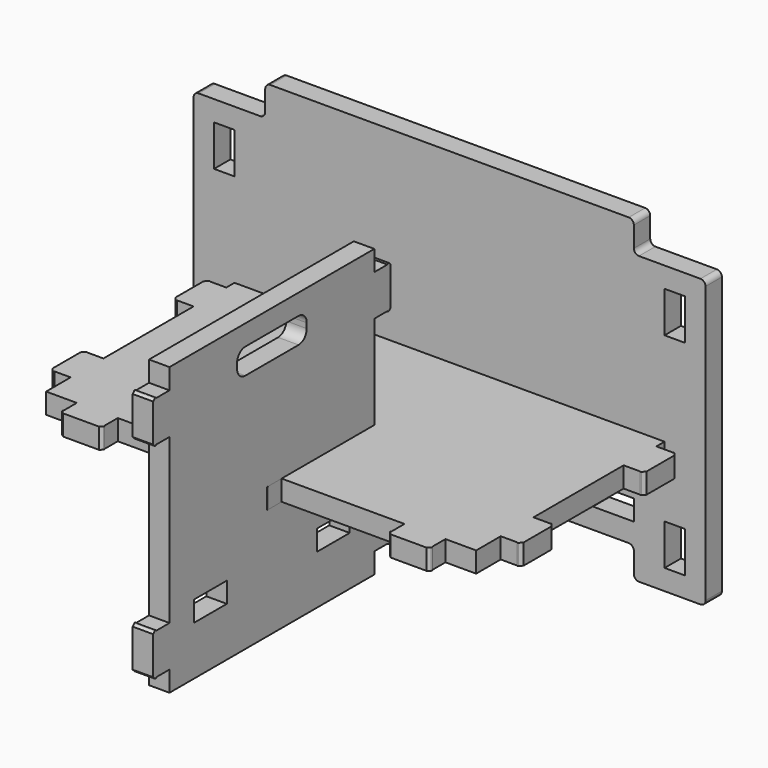
from build123d import *

# Parameters (mm, degrees)
F0_W     = 40
F0_H     = 20
F0_W_2   = 20
F0_H_2   = 40
F3_DEPTH = 20
F1_W     = 40
F1_H     = 20
F4_DEPTH = 20
F2_W     = 16
F2_H     = 40
F5_DEPTH = 20


with BuildPart() as f3:
    # F0 (on Front) → F3 (new body)
    with BuildSketch(Plane.XZ):
        with BuildLine():
            ThreePointArc((-180, -83.550865), (-178.535534, -80.015331), (-175, -78.550865))
            Line((-175, -78.550865), (175, -78.550865))
            ThreePointArc((175, -78.550865), (178.535534, -80.015331), (180, -83.550865))
            Line((180, -83.550865), (180, -103.550865))
            ThreePointArc((180, -103.550865), (181.464466, -107.086399), (185, -108.550865))
            Line((185, -108.550865), (245, -108.550865))
            ThreePointArc((245, -108.550865), (248.535534, -107.086399), (250, -103.550865))
            Line((250, -103.550865), (250, -80.550865))
            Line((250, -80.550865), (250, -78.550865))
            Line((250, -78.550865), (250, 166.449135))
            ThreePointArc((250, 166.449135), (248.535534, 169.984669), (245, 171.449135))
            Line((245, 171.449135), (185, 171.449135))
            ThreePointArc((185, 171.449135), (181.464466, 172.913601), (180, 176.449135))
            Line((180, 176.449135), (180, 196.449135))
            ThreePointArc((180, 196.449135), (178.535534, 199.984669), (175, 201.449135))
            Line((175, 201.449135), (-175, 201.449135))
            ThreePointArc((-175, 201.449135), (-178.535534, 199.984669), (-180, 196.449135))
            Line((-180, 196.449135), (-180, 176.449135))
            ThreePointArc((-180, 176.449135), (-181.464466, 172.913601), (-185, 171.449135))
            Line((-185, 171.449135), (-245, 171.449135))
            ThreePointArc((-245, 171.449135), (-248.535534, 169.984669), (-250, 166.449135))
            Line((-250, 166.449135), (-250, -78.550865))
            Line((-250, -78.550865), (-250, -80.550865))
            Line((-250, -80.550865), (-250, -103.550865))
            ThreePointArc((-250, -103.550865), (-248.535534, -107.086399), (-245, -108.550865))
            Line((-245, -108.550865), (-185, -108.550865))
            ThreePointArc((-185, -108.550865), (-181.464466, -107.086399), (-180, -103.550865))
            Line((-180, -103.550865), (-180, -83.550865))
        make_face()
        Polygon((-230, -88.550865), (-230, -78.550865), (-230, -48.550865), (-210, -48.550865), (-210, -78.550865), (-210, -88.550865), align=None, mode=Mode.SUBTRACT)
        with Locations((-160, -48.550865)):
            Rectangle(F0_W, F0_H, mode=Mode.SUBTRACT)
        with Locations((0, -48.550865)):
            Rectangle(F0_W, F0_H, mode=Mode.SUBTRACT)
        with Locations((160, -48.550865)):
            Rectangle(F0_W, F0_H, mode=Mode.SUBTRACT)
        Polygon((230, -48.550865), (230, -78.550865), (230, -88.550865), (210, -88.550865), (210, -78.550865), (210, -48.550865), align=None, mode=Mode.SUBTRACT)
        with Locations((-220, 131.449135)):
            Rectangle(F0_W_2, F0_H_2, mode=Mode.SUBTRACT)
        with Locations((220, 131.449135)):
            Rectangle(F0_W_2, F0_H_2, mode=Mode.SUBTRACT)
    extrude(amount=F3_DEPTH)


with BuildPart() as f4:
    # F1 (on Right) → F4 (new body)
    with BuildSketch(Plane.YZ):
        Polygon((-386.832327, -108.550865), (-136.832327, -108.550865), (-136.832327, -88.550865), (-136.832327, -48.550865), (-136.832327, 111.449135), (-136.832327, 151.449135), (-136.832327, 171.449135), (-386.832327, 171.449135), (-386.832327, 151.449135), (-386.832327, 111.449135), (-386.832327, -48.550865), (-386.832327, -88.550865), align=None)
        with Locations((-336.832327, -50.550865)):
            Rectangle(F1_W, F1_H, mode=Mode.SUBTRACT)
        with Locations((-186.832327, -50.550865)):
            Rectangle(F1_W, F1_H, mode=Mode.SUBTRACT)
        with BuildLine():
            Line((-294.332327, 151.449135), (-229.332327, 151.449135))
            ThreePointArc((-229.332327, 151.449135), (-222.261259, 148.520203), (-219.332327, 141.449135))
            Line((-219.332327, 141.449135), (-219.332327, 136.449135))
            ThreePointArc((-219.332327, 136.449135), (-222.261259, 129.378067), (-229.332327, 126.449135))
            Line((-229.332327, 126.449135), (-294.332327, 126.449135))
            ThreePointArc((-294.332327, 126.449135), (-301.403394, 129.378067), (-304.332327, 136.449135))
            Line((-304.332327, 136.449135), (-304.332327, 141.449135))
            ThreePointArc((-304.332327, 141.449135), (-301.403394, 148.520203), (-294.332327, 151.449135))
        make_face(mode=Mode.SUBTRACT)
        Polygon((-136.832327, -48.550865), (-136.832327, -88.550865), (-120.832327, -88.550865), (-120.832327, -68.550865), (-120.832327, -48.550865), align=None)
        Polygon((-402.832327, -88.550865), (-386.832327, -88.550865), (-386.832327, -48.550865), (-402.832327, -48.550865), (-402.832327, -68.550865), align=None)
        with BuildLine():
            Line((-120.832327, -68.550865), (-120.832327, -88.550865))
            Line((-120.832327, -88.550865), (-120.26851, -89.107587))
            ThreePointArc((-120.26851, -89.107587), (-119.559563, -89.395997), (-118.854325, -89.098632))
            Line((-118.854325, -89.098632), (-116.832327, -87.050865))
            Line((-116.832327, -87.050865), (-116.832327, -68.550865))
            Line((-116.832327, -68.550865), (-116.832327, -50.050865))
            Line((-116.832327, -50.050865), (-118.854325, -48.003098))
            ThreePointArc((-118.854325, -48.003098), (-119.559563, -47.705733), (-120.26851, -47.994143))
            Line((-120.26851, -47.994143), (-120.832327, -48.550865))
            Line((-120.832327, -48.550865), (-120.832327, -68.550865))
        make_face()
        with BuildLine():
            Line((-403.396143, -89.107587), (-402.832327, -88.550865))
            Line((-402.832327, -88.550865), (-402.832327, -68.550865))
            Line((-402.832327, -68.550865), (-402.832327, -48.550865))
            Line((-402.832327, -48.550865), (-403.396143, -47.994143))
            ThreePointArc((-403.396143, -47.994143), (-404.105091, -47.705733), (-404.810329, -48.003098))
            Line((-404.810329, -48.003098), (-406.832327, -50.050865))
            Line((-406.832327, -50.050865), (-406.832327, -68.550865))
            Line((-406.832327, -68.550865), (-406.832327, -87.050865))
            Line((-406.832327, -87.050865), (-404.810329, -89.098632))
            ThreePointArc((-404.810329, -89.098632), (-404.105091, -89.395997), (-403.396143, -89.107587))
        make_face()
        Polygon((-136.832327, 151.449135), (-136.832327, 111.449135), (-120.832327, 111.449135), (-120.832327, 131.449135), (-120.832327, 151.449135), align=None)
        Polygon((-402.832327, 111.449135), (-386.832327, 111.449135), (-386.832327, 151.449135), (-402.832327, 151.449135), (-402.832327, 131.449135), align=None)
        with BuildLine():
            Line((-120.832327, 131.449135), (-120.832327, 111.449135))
            Line((-120.832327, 111.449135), (-120.26851, 110.892413))
            ThreePointArc((-120.26851, 110.892413), (-119.559563, 110.604003), (-118.854325, 110.901368))
            Line((-118.854325, 110.901368), (-116.832327, 112.949135))
            Line((-116.832327, 112.949135), (-116.832327, 131.449135))
            Line((-116.832327, 131.449135), (-116.832327, 149.949135))
            Line((-116.832327, 149.949135), (-118.854325, 151.996902))
            ThreePointArc((-118.854325, 151.996902), (-119.559563, 152.294267), (-120.26851, 152.005857))
            Line((-120.26851, 152.005857), (-120.832327, 151.449135))
            Line((-120.832327, 151.449135), (-120.832327, 131.449135))
        make_face()
        with BuildLine():
            Line((-403.396143, 110.892413), (-402.832327, 111.449135))
            Line((-402.832327, 111.449135), (-402.832327, 131.449135))
            Line((-402.832327, 131.449135), (-402.832327, 151.449135))
            Line((-402.832327, 151.449135), (-403.396143, 152.005857))
            ThreePointArc((-403.396143, 152.005857), (-404.105091, 152.294267), (-404.810329, 151.996902))
            Line((-404.810329, 151.996902), (-406.832327, 149.949135))
            Line((-406.832327, 149.949135), (-406.832327, 131.449135))
            Line((-406.832327, 131.449135), (-406.832327, 112.949135))
            Line((-406.832327, 112.949135), (-404.810329, 110.901368))
            ThreePointArc((-404.810329, 110.901368), (-404.105091, 110.604003), (-403.396143, 110.892413))
        make_face()
    extrude(amount=F4_DEPTH)


with BuildPart() as f5:
    # F2 (on Top) → F5 (new body)
    with BuildSketch(Plane.XY):
        Polygon((-180, 0), (-210, 0), (-210, -30), (-210, -70), (-210, -180), (-210, -220), (-210, -250), (-180, -250), (-140, -250), (-20, -250), (20, -250), (140, -250), (180, -250), (210, -250), (210, -220), (210, -180), (210, -70), (210, -30), (210, 0), (180, 0), (140, 0), (20, 0), (-20, 0), (-140, 0), align=None)
        Polygon((-180, 16), (-180, 0), (-140, 0), (-140, 16), (-160, 16), align=None)
        with Locations((-218, -50)):
            Rectangle(F2_W, F2_H)
        with BuildLine():
            Line((-180.256755, 16.297232), (-180, 16))
            Line((-180, 16), (-160, 16))
            Line((-160, 16), (-140, 16))
            Line((-140, 16), (-139.743245, 16.297232))
            ThreePointArc((-139.743245, 16.297232), (-139.502659, 17.023803), (-139.846301, 17.707686))
            Line((-139.846301, 17.707686), (-142.5, 20))
            Line((-142.5, 20), (-160, 20))
            Line((-160, 20), (-177.5, 20))
            Line((-177.5, 20), (-180.153699, 17.707686))
            ThreePointArc((-180.153699, 17.707686), (-180.497341, 17.023803), (-180.256755, 16.297232))
        make_face()
        with BuildLine():
            Line((-226, -70), (-226, -30))
            Line((-226, -30), (-226.230299, -29.807743))
            ThreePointArc((-226.230299, -29.807743), (-226.947322, -29.634489), (-227.588058, -30))
            Line((-227.588058, -30), (-230, -33))
            Line((-230, -33), (-230, -50))
            Line((-230, -50), (-230, -67))
            Line((-230, -67), (-227.588058, -70))
            ThreePointArc((-227.588058, -70), (-226.947322, -70.365511), (-226.230299, -70.192257))
            Line((-226.230299, -70.192257), (-226, -70))
        make_face()
        Polygon((-20, 16), (-20, 0), (20, 0), (20, 16), (0, 16), align=None)
        with Locations((-218, -200)):
            Rectangle(F2_W, F2_H)
        with BuildLine():
            Line((-20.256755, 16.297232), (-20, 16))
            Line((-20, 16), (0, 16))
            Line((0, 16), (20, 16))
            Line((20, 16), (20.256755, 16.297232))
            ThreePointArc((20.256755, 16.297232), (20.497341, 17.023803), (20.153699, 17.707686))
            Line((20.153699, 17.707686), (17.5, 20))
            Line((17.5, 20), (0, 20))
            Line((0, 20), (-17.5, 20))
            Line((-17.5, 20), (-20.153699, 17.707686))
            ThreePointArc((-20.153699, 17.707686), (-20.497341, 17.023803), (-20.256755, 16.297232))
        make_face()
        with BuildLine():
            Line((-226, -220), (-226, -180))
            Line((-226, -180), (-226.230299, -179.807743))
            ThreePointArc((-226.230299, -179.807743), (-226.947322, -179.634489), (-227.588058, -180))
            Line((-227.588058, -180), (-230, -183))
            Line((-230, -183), (-230, -200))
            Line((-230, -200), (-230, -217))
            Line((-230, -217), (-227.588058, -220))
            ThreePointArc((-227.588058, -220), (-226.947322, -220.365511), (-226.230299, -220.192257))
            Line((-226.230299, -220.192257), (-226, -220))
        make_face()
        Polygon((140, 16), (140, 0), (180, 0), (180, 16), (160, 16), align=None)
        with BuildLine():
            Line((139.743245, 16.297232), (140, 16))
            Line((140, 16), (160, 16))
            Line((160, 16), (180, 16))
            Line((180, 16), (180.256755, 16.297232))
            ThreePointArc((180.256755, 16.297232), (180.497341, 17.023803), (180.153699, 17.707686))
            Line((180.153699, 17.707686), (177.5, 20))
            Line((177.5, 20), (160, 20))
            Line((160, 20), (142.5, 20))
            Line((142.5, 20), (139.846301, 17.707686))
            ThreePointArc((139.846301, 17.707686), (139.502659, 17.023803), (139.743245, 16.297232))
        make_face()
        Polygon((-140, -250), (-180, -250), (-180, -266), (-160, -266), (-140, -266), align=None)
        with BuildLine():
            Line((-160, -266), (-180, -266))
            Line((-180, -266), (-180.256755, -266.297232))
            ThreePointArc((-180.256755, -266.297232), (-180.497341, -267.023803), (-180.153699, -267.707686))
            Line((-180.153699, -267.707686), (-177.5, -270))
            Line((-177.5, -270), (-160, -270))
            Line((-160, -270), (-142.5, -270))
            Line((-142.5, -270), (-139.846301, -267.707686))
            ThreePointArc((-139.846301, -267.707686), (-139.502659, -267.023803), (-139.743245, -266.297232))
            Line((-139.743245, -266.297232), (-140, -266))
            Line((-140, -266), (-160, -266))
        make_face()
        with Locations((218, -50)):
            Rectangle(F2_W, F2_H)
        Polygon((20, -250), (-20, -250), (-20, -266), (0, -266), (20, -266), align=None)
        with BuildLine():
            Line((226.230299, -29.807743), (226, -30))
            Line((226, -30), (226, -70))
            Line((226, -70), (226.230299, -70.192257))
            ThreePointArc((226.230299, -70.192257), (226.947322, -70.365511), (227.588058, -70))
            Line((227.588058, -70), (230, -67))
            Line((230, -67), (230, -50))
            Line((230, -50), (230, -33))
            Line((230, -33), (227.588058, -30))
            ThreePointArc((227.588058, -30), (226.947322, -29.634489), (226.230299, -29.807743))
        make_face()
        with BuildLine():
            Line((0, -266), (-20, -266))
            Line((-20, -266), (-20.256755, -266.297232))
            ThreePointArc((-20.256755, -266.297232), (-20.497341, -267.023803), (-20.153699, -267.707686))
            Line((-20.153699, -267.707686), (-17.5, -270))
            Line((-17.5, -270), (0, -270))
            Line((0, -270), (17.5, -270))
            Line((17.5, -270), (20.153699, -267.707686))
            ThreePointArc((20.153699, -267.707686), (20.497341, -267.023803), (20.256755, -266.297232))
            Line((20.256755, -266.297232), (20, -266))
            Line((20, -266), (0, -266))
        make_face()
        with Locations((218, -200)):
            Rectangle(F2_W, F2_H)
        Polygon((180, -250), (140, -250), (140, -266), (160, -266), (180, -266), align=None)
        with BuildLine():
            Line((226.230299, -179.807743), (226, -180))
            Line((226, -180), (226, -220))
            Line((226, -220), (226.230299, -220.192257))
            ThreePointArc((226.230299, -220.192257), (226.947322, -220.365511), (227.588058, -220))
            Line((227.588058, -220), (230, -217))
            Line((230, -217), (230, -200))
            Line((230, -200), (230, -183))
            Line((230, -183), (227.588058, -180))
            ThreePointArc((227.588058, -180), (226.947322, -179.634489), (226.230299, -179.807743))
        make_face()
        with BuildLine():
            Line((160, -266), (140, -266))
            Line((140, -266), (139.743245, -266.297232))
            ThreePointArc((139.743245, -266.297232), (139.502659, -267.023803), (139.846301, -267.707686))
            Line((139.846301, -267.707686), (142.5, -270))
            Line((142.5, -270), (160, -270))
            Line((160, -270), (177.5, -270))
            Line((177.5, -270), (180.153699, -267.707686))
            ThreePointArc((180.153699, -267.707686), (180.497341, -267.023803), (180.256755, -266.297232))
            Line((180.256755, -266.297232), (180, -266))
            Line((180, -266), (160, -266))
        make_face()
    extrude(amount=F5_DEPTH)


solid = Compound([f3.part, f4.part, f5.part])
